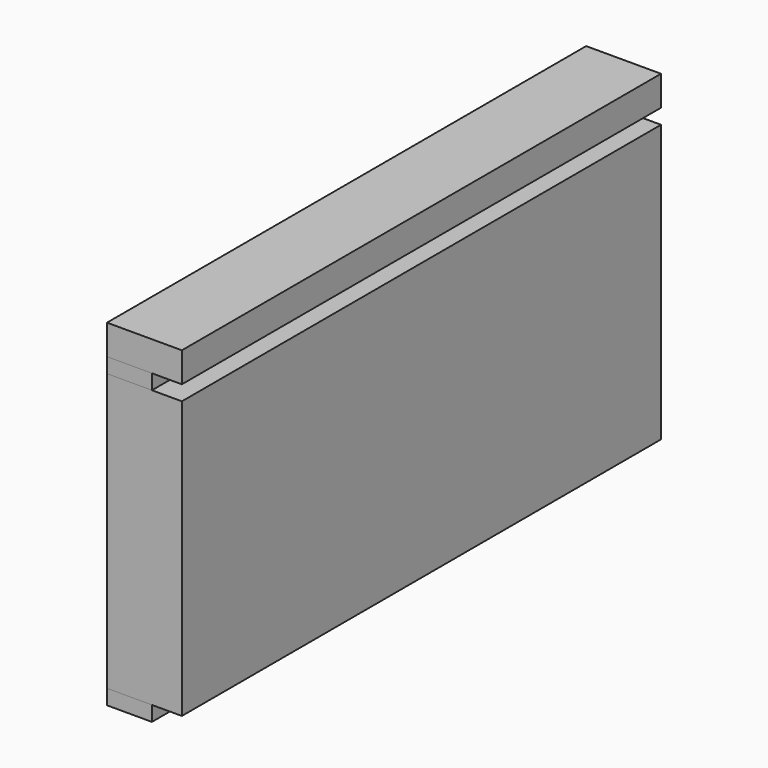
from build123d import *

# Parameters (mm, degrees)
F0_W     = 160
F0_H     = 74
F0_H_2   = 8
F1_DEPTH = 20
F0_H_3   = 4
F2_DEPTH = 12


with BuildPart() as f1:
    # F0 (on Right) → F1 (new body)
    with BuildSketch(Plane.YZ):
        with Locations((14.24528, 41)):
            Rectangle(F0_W, F0_H)
        with Locations((14.24528, 86)):
            Rectangle(F0_W, F0_H_2)
    extrude(amount=F1_DEPTH)


with BuildPart() as f2:
    # F0 (on Right) → F2 (new body)
    with BuildSketch(Plane.YZ):
        with Locations((14.24528, 80)):
            Rectangle(F0_W, F0_H_3)
        with Locations((14.24528, 2)):
            Rectangle(F0_W, F0_H_3)
    extrude(amount=F2_DEPTH)


solid = Compound([f1.part, f2.part])
